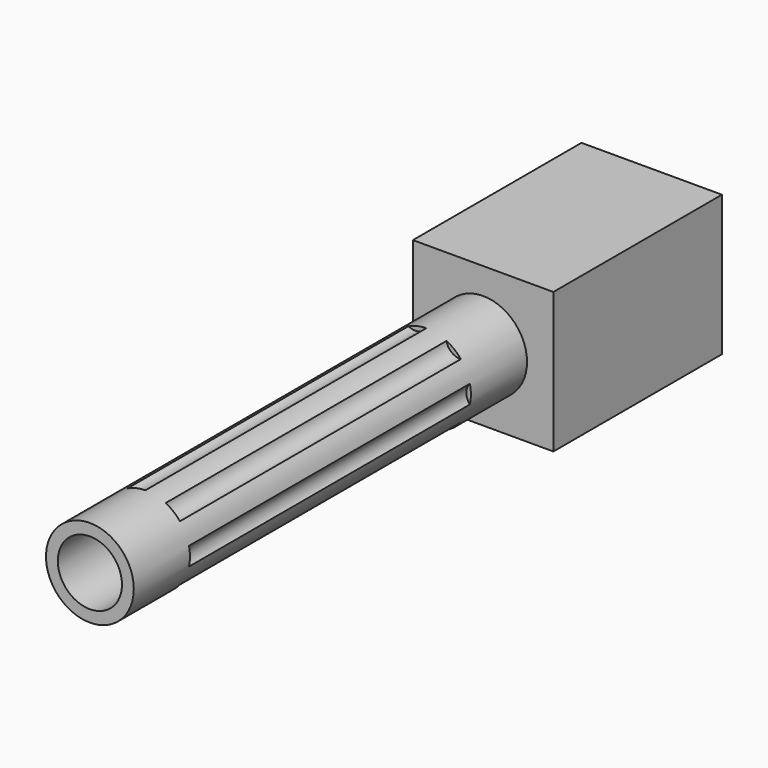
from build123d import *

# Parameters (mm, degrees)
F0_W     = 25.4
F0_H     = 25.4
F0_R     = 7.9375
F0_R_2   = 5.8024107256
F1_DEPTH = 38.1
F2_DEPTH = 127
F4_START = -12.7
F3_R     = 2.4554456834
F4_DEPTH = 63.5


with BuildPart() as f1:
    # F0 (on Front) → F1 (new body)
    with BuildSketch(Plane.XZ):
        Rectangle(F0_W, F0_H)
        Circle(F0_R, mode=Mode.SUBTRACT)
        Circle(F0_R)
        Circle(F0_R_2, mode=Mode.SUBTRACT)
    extrude(amount=F1_DEPTH)

    # F0 (on Front) → F2 (join)
    with BuildSketch(Plane.XZ):
        Circle(F0_R)
        Circle(F0_R_2, mode=Mode.SUBTRACT)
    extrude(amount=F2_DEPTH)

    # F3 (on face) → F4 (cut)
    with BuildSketch(Plane.XZ.offset(127).offset(F4_START)):
        with Locations((9.5774363726, 0)):
            Circle(F3_R)
        with Locations((5.9714339063, 7.4879412775)):
            Circle(F3_R)
        with Locations((-2.1311800865, 9.3373100468)):
            Circle(F3_R)
        with Locations((-8.6289720061, 4.1554939045)):
            Circle(F3_R)
        with Locations((-8.6289720061, -4.1554939045)):
            Circle(F3_R)
        with Locations((-2.1311800865, -9.3373100468)):
            Circle(F3_R)
        with Locations((5.9714339063, -7.4879412775)):
            Circle(F3_R)
    extrude(amount=-F4_DEPTH, mode=Mode.SUBTRACT)


solid = f1.part
